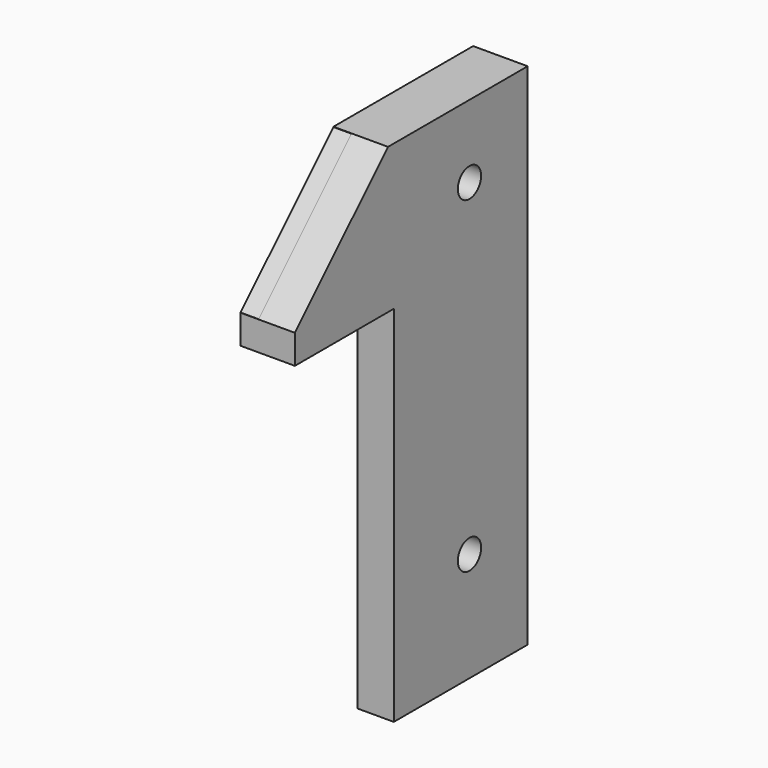
from build123d import *

# Parameters (mm, degrees)
CIRCLE003_R                                  = 2
EXTRUDE087_DEPTH                             = 5
CIRCLE004_R                                  = 2
EXTRUDE088_DEPTH                             = 5
RECTANGLE026_W                               = 23
RECTANGLE026_H                               = 20
EXTRUDE019_DEPTH                             = 5
CHAMFER006_SIZE                              = 16
RECTANGLE028_AS_DRAWN_W                      = 22.6
RECTANGLE028_AS_DRAWN_H                      = 4
EXTRUDE033_DEPTH                             = 2.5
EXTRUDE033_ONTO_RECTANGLE028_ROLL_ANGLE      = 89.999906
EXTRUDE033_ONTO_RECTANGLE028_PITCH_ANGLE     = -44.999767
EXTRUDE033_ONTO_RECTANGLE028_PLACEMENT_ANGLE = 89.999906
RECTANGLE029_W                               = 24
RECTANGLE029_H                               = 4
EXTRUDE034_DEPTH                             = 2.5
RECTANGLE030_W                               = 4
RECTANGLE030_H                               = 4
EXTRUDE035_DEPTH                             = 2.5
RECTANGLE027_W                               = 17
RECTANGLE027_H                               = 20
EXTRUDE020_DEPTH                             = 5
RECTANGLE025_W                               = 23
RECTANGLE025_H                               = 60
EXTRUDE018_DEPTH                             = 5


with BuildPart() as extrude087:
    # Circle003 → Extrude087 (new body)
    with BuildSketch(Plane(origin=(-135, 30, 25), x_dir=(0, 1, 0), z_dir=(1, 0, 0))):
        Circle(CIRCLE003_R)
    extrude(amount=-EXTRUDE087_DEPTH)


with BuildPart() as extrude088:
    # Circle004 → Extrude088 (new body)
    with BuildSketch(Plane(origin=(-135, 30, 70), x_dir=(0, 1, 0), z_dir=(1, 0, 0))):
        Circle(CIRCLE004_R)
    extrude(amount=-EXTRUDE088_DEPTH)


with BuildPart() as chamfer006:
    # Rectangle026 → Extrude019 (new body)
    with BuildSketch(Plane(origin=(0, 17, 70), x_dir=(0, 1, 0), z_dir=(1, 0, 0))):
        with Locations((11.5, 10)):
            Rectangle(RECTANGLE026_W, RECTANGLE026_H)
    extrude(amount=EXTRUDE019_DEPTH)


with BuildPart() as chamfer006_1:
    # Extrude019 placement: moved
    add(chamfer006.part.moved(Location((0, -17, 0))))

    # Chamfer006
    chamfer006_edges = [chamfer006_1.edges().sort_by_distance(p)[0] for p in [
        (2.5, 0, 90),
    ]]
    chamfer(chamfer006_edges, length=CHAMFER006_SIZE)


with BuildPart() as chamfer006_2:
    # Chamfer006 placement: moved
    add(chamfer006_1.part.moved(Location((-140, 0, 0))))


with BuildPart() as extrude033:
    # Rectangle028 as drawn → Extrude033 (new)
    with BuildSketch(Plane.XY):
        with Locations((11.3, 2)):
            Rectangle(RECTANGLE028_AS_DRAWN_W, RECTANGLE028_AS_DRAWN_H)
    extrude(amount=EXTRUDE033_DEPTH)


with BuildPart() as extrude033_1:
    # Extrude033 onto Rectangle028 roll: moved
    add(extrude033.part.rotate(Axis((0, 0, 0), (1, 0, 0)), EXTRUDE033_ONTO_RECTANGLE028_ROLL_ANGLE))


with BuildPart() as extrude033_2:
    # Extrude033 onto Rectangle028 pitch: moved
    add(extrude033_1.part.rotate(Axis((0, 0, 0), (0, 1, 0)), EXTRUDE033_ONTO_RECTANGLE028_PITCH_ANGLE))


with BuildPart() as extrude033_3:
    # Extrude033 onto Rectangle028 placement: moved
    add(extrude033_2.part.moved(Location((5, 2.85, 71.15))).rotate(Axis((5, 2.85, 71.15), (0, 0, 1)), EXTRUDE033_ONTO_RECTANGLE028_PLACEMENT_ANGLE))


with BuildPart() as extrude033_4:
    # Extrude033 placement: moved
    add(extrude033_3.part.moved(Location((-147.5, 0, 0))))


with BuildPart() as extrude034:
    # Rectangle029 → Extrude034 (new body)
    with BuildSketch(Plane(origin=(5, 16, 86), x_dir=(0, 1, 0), z_dir=(1, 0, 0))):
        with Locations((12, 2)):
            Rectangle(RECTANGLE029_W, RECTANGLE029_H)
    extrude(amount=EXTRUDE034_DEPTH)


with BuildPart() as extrude034_1:
    # Extrude034 placement: moved
    add(extrude034.part.moved(Location((-147.5, 0, 0))))


with BuildPart() as extrude035:
    # Rectangle030 → Extrude035 (new body)
    with BuildSketch(Plane(origin=(5, 0, 70), x_dir=(0, 1, 0), z_dir=(1, 0, 0))):
        with Locations((2, 2)):
            Rectangle(RECTANGLE030_W, RECTANGLE030_H)
    extrude(amount=EXTRUDE035_DEPTH)


with BuildPart() as extrude035_1:
    # Extrude035 placement: moved
    add(extrude035.part.moved(Location((-147.5, 0, 0))))


with BuildPart() as fusion:
    # Rectangle027 → Extrude020 (new body)
    with BuildSketch(Plane(origin=(0, 0, 70), x_dir=(0, 1, 0), z_dir=(1, 0, 0))):
        with Locations((8.5, 10)):
            Rectangle(RECTANGLE027_W, RECTANGLE027_H)
    extrude(amount=EXTRUDE020_DEPTH)


with BuildPart() as fusion_1:
    # Extrude020 placement: moved
    add(fusion.part.moved(Location((-140, 23, 0))))

    # Fusion: union Chamfer006, Extrude033, Extrude034, Extrude035
    add(chamfer006_2.part)
    add(extrude033_4.part)
    add(extrude034_1.part)
    add(extrude035_1.part)


with BuildPart() as fusion_2:
    # Fusion placement: moved
    add(fusion_1.part.moved(Location((0, 0, -10))))


with BuildPart() as cut008:
    # Rectangle025 → Extrude018 (new body)
    with BuildSketch(Plane(origin=(0, 17, 10), x_dir=(0, 1, 0), z_dir=(1, 0, 0))):
        with Locations((11.5, 30)):
            Rectangle(RECTANGLE025_W, RECTANGLE025_H)
    extrude(amount=EXTRUDE018_DEPTH)


with BuildPart() as cut008_1:
    # Extrude018 placement: moved
    add(cut008.part.moved(Location((-140, 0, 0))))

    # Fusion002: union Fusion
    add(fusion_2.part)

    # Cut006: cut Extrude088
    add(extrude088.part, mode=Mode.SUBTRACT)

    # Cut008: cut Extrude087
    add(extrude087.part, mode=Mode.SUBTRACT)


solid = cut008_1.part
